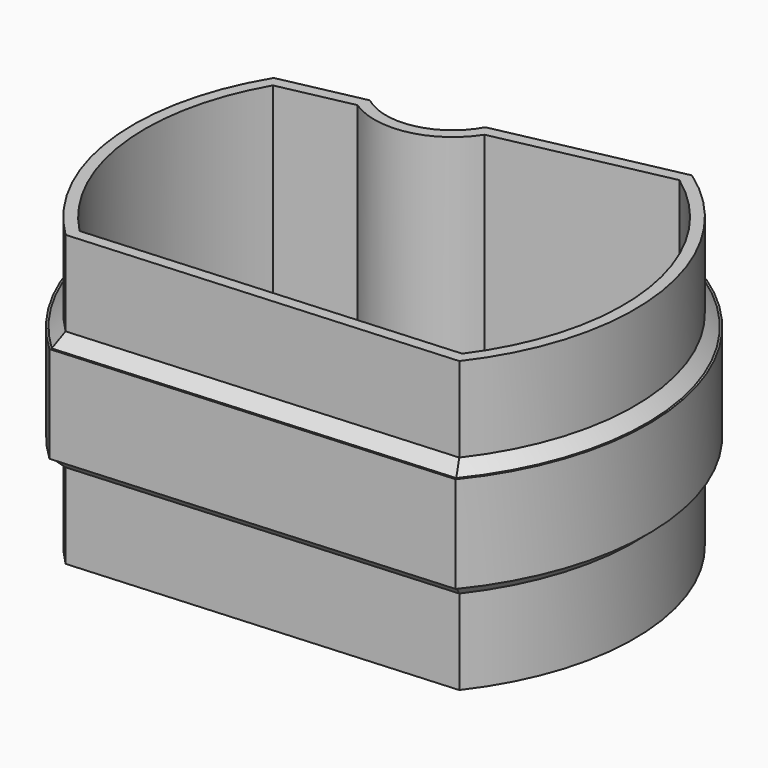
from build123d import *

# Parameters (mm, degrees)
F1_DEPTH = 30
F3_DEPTH = 10
F5_DEPTH = 10
F6_SIZE  = 1.2


with BuildPart() as f1:
    # F0 (on Top) → F1 (new body)
    with BuildSketch(Plane.XY):
        with BuildLine():
            Line((-9.216308, -17.411032), (30.691593, -14.698203))
            ThreePointArc((30.691593, -14.698203), (36.514619, 6.635995), (24.655298, 25.301797))
            Line((24.655298, 25.301797), (5.084314, 21.18153))
            ThreePointArc((5.084314, 21.18153), (1.133073, 17.897067), (-3.807032, 19.309641))
            Line((-3.807032, 19.309641), (-13.592523, 17.249507))
            ThreePointArc((-13.592523, 17.249507), (-17.660185, -0.870611), (-9.216308, -17.411032))
        make_face()
        with BuildLine():
            ThreePointArc((-8.23102, -14.738054), (-15.082961, -0.526675), (-11.955391, 14.937177))
            Line((-11.955391, 14.937177), (-4.457272, 16.515751))
            ThreePointArc((-4.457272, 16.515751), (1.668708, 15.35284), (6.805824, 18.886964))
            Line((6.805824, 18.886964), (24.089435, 22.525672))
            ThreePointArc((24.089435, 22.525672), (33.940977, 6.266214), (29.353638, -12.183153))
            Line((29.353638, -12.183153), (-8.23102, -14.738054))
        make_face(mode=Mode.SUBTRACT)
    extrude(amount=F1_DEPTH)

    # F2 (on face) → F3 (cut)
    with BuildSketch(Plane(origin=(0, 0, 0), x_dir=(1, 0, 0), z_dir=(0, 0, -1))):
        with BuildLine():
            Line((30.691593, 14.698203), (-9.216308, 17.411032))
            ThreePointArc((-9.216308, 17.411032), (-17.660185, 0.870611), (-13.592523, -17.249507))
            Line((-13.592523, -17.249507), (-3.807032, -19.309641))
            ThreePointArc((-3.807032, -19.309641), (1.133073, -17.897067), (5.084314, -21.18153))
            Line((5.084314, -21.18153), (24.655298, -25.301797))
            ThreePointArc((24.655298, -25.301797), (36.514619, -6.635995), (30.691593, 14.698203))
        make_face()
        with BuildLine():
            ThreePointArc((6.045536, -19.953206), (1.421492, -16.527099), (-4.191416, -17.798027))
            Line((-4.191416, -17.798027), (-12.719125, -16.002694))
            ThreePointArc((-12.719125, -16.002694), (-16.272457, 0.685365), (-8.694441, 15.972326))
            Line((-8.694441, 15.972326), (29.979829, 13.343356))
            ThreePointArc((29.979829, 13.343356), (35.128806, -6.436932), (24.358737, -23.808673))
            Line((24.358737, -23.808673), (6.045536, -19.953206))
        make_face(mode=Mode.SUBTRACT)
    extrude(amount=-F3_DEPTH, mode=Mode.SUBTRACT)

    # F4 (on face) → F5 (cut)
    with BuildSketch(Plane.XY.offset(30)):
        with BuildLine():
            Line((-3.807032, 19.309641), (-13.592523, 17.249507))
            ThreePointArc((-13.592523, 17.249507), (-17.660185, -0.870611), (-9.216308, -17.411032))
            Line((-9.216308, -17.411032), (30.691593, -14.698203))
            ThreePointArc((30.691593, -14.698203), (36.514619, 6.635995), (24.655298, 25.301797))
            Line((24.655298, 25.301797), (5.084314, 21.18153))
            ThreePointArc((5.084314, 21.18153), (1.133073, 17.897067), (-3.807032, 19.309641))
        make_face()
        with BuildLine():
            ThreePointArc((-8.694441, -15.972326), (-16.272457, -0.685365), (-12.719125, 16.002694))
            Line((-12.719125, 16.002694), (-4.191416, 17.798027))
            ThreePointArc((-4.191416, 17.798027), (1.421492, 16.527099), (6.045536, 19.953206))
            Line((6.045536, 19.953206), (24.358737, 23.808673))
            ThreePointArc((24.358737, 23.808673), (35.128806, 6.436932), (29.979829, -13.343356))
            Line((29.979829, -13.343356), (-8.694441, -15.972326))
        make_face(mode=Mode.SUBTRACT)
    extrude(amount=-F5_DEPTH, mode=Mode.SUBTRACT)

    # F6
    f6_edges = [f1.edges().sort_by_distance(p)[0] for p in [
        (-16.272457, -0.685365, 20),
        (-8.455271, 16.90036, 20),
        (1.421492, 16.527099, 20),
        (15.202137, 21.88094, 20),
        (35.128806, 6.436932, 20),
        (10.642694, -14.657841, 20),
        (15.202137, 21.88094, 10),
        (35.128806, 6.436932, 10),
        (1.421492, 16.527099, 10),
        (-8.455271, 16.90036, 10),
        (-16.272457, -0.685365, 10),
        (10.642694, -14.657841, 10),
    ]]
    chamfer(f6_edges, length=F6_SIZE)


solid = f1.part
